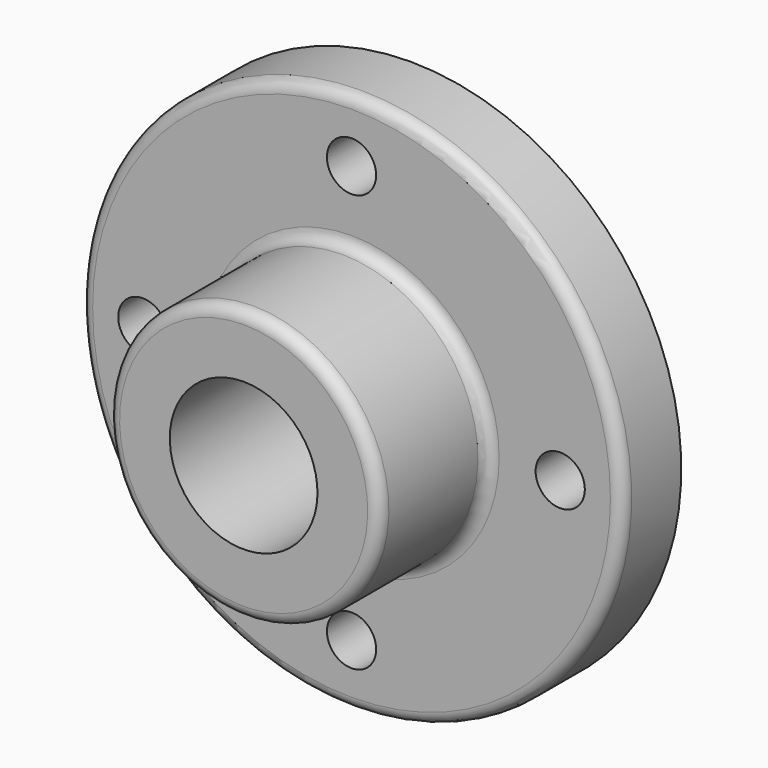
from build123d import *

# Parameters (mm, degrees)
F2_R     = 3.048
F3_R     = 6.35
F4_DEPTH = 19.051


with BuildPart() as f1:
    # F0 (on Right) → F1 (revolve)
    with BuildSketch(Plane.YZ):
        Polygon((-53.848, 35.052), (-53.848, 19.05), (0, 19.05), (0, 69.85), (-19.05, 69.85), (-19.05, 35.052), align=None)
    revolve(axis=Axis((0, 1.321171, 0), (0, 1, 0)))

    # F2
    f2_edges = [f1.edges().sort_by_distance(p)[0] for p in [
        (0, -19.05, -69.85),
        (0, -53.848, -35.052),
        (0, -19.05, -35.052),
    ]]
    fillet(f2_edges, radius=F2_R)

    # F3 (on face) → F4 (cut, through all)
    with BuildSketch(Plane.XZ.offset(19.05)):
        with Locations((0, 53.848)):
            Circle(F3_R)
        with Locations((53.848, 0)):
            Circle(F3_R)
        with Locations((0, -53.848)):
            Circle(F3_R)
        with Locations((-53.848, 0)):
            Circle(F3_R)
    extrude(amount=-F4_DEPTH, mode=Mode.SUBTRACT)


solid = f1.part
